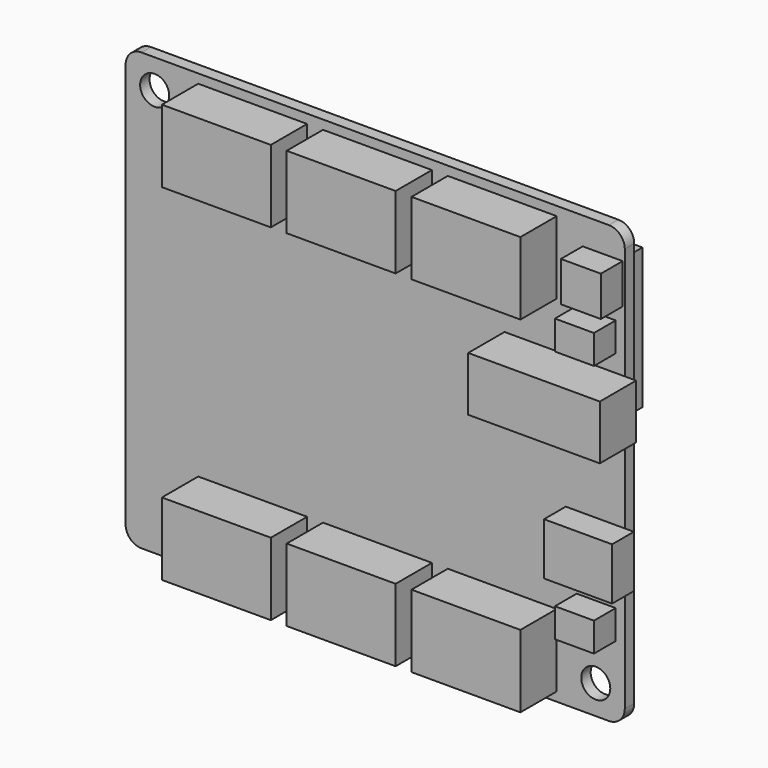
from build123d import *

# Parameters (mm, degrees)
PAD_DEPTH     = 1.3
SKETCH001_R   = 2.011692
SKETCH001_W   = 32
SKETCH001_H   = 29
SKETCH001_W_2 = 7
SKETCH001_H_2 = 5
SKETCH001_W_3 = 14
SKETCH001_H_3 = 15.5
PAD001_DEPTH  = 1.75
SKETCH002_W   = 12
SKETCH002_H   = 8
SKETCH002_W_2 = 14.5
SKETCH002_H_2 = 6
PAD002_DEPTH  = 5
SKETCH003_W   = 4.4
SKETCH003_H   = 4.4
SKETCH003_W_2 = 4.3
SKETCH003_H_2 = 3.2
SKETCH003_W_3 = 7.5
SKETCH003_H_3 = 5.75
PAD003_DEPTH  = 3
SKETCH004_W   = 4.2
SKETCH004_H   = 3.2
PAD004_DEPTH  = 3
SKETCH005_R   = 1.6
POCKET_DEPTH  = 6.301


with BuildPart() as part:
    # Sketch → Pad (new body)
    with BuildSketch(Plane.XZ):
        with BuildLine():
            Line((-53.25, 48.1), (-1.75, 48.1))
            ThreePointArc((0, 46.35), (-0.512563, 47.587437), (-1.75, 48.1))
            Line((0, 46.35), (0, 1.75))
            ThreePointArc((-1.75, 0), (-0.512563, 0.512563), (0, 1.75))
            Line((-1.75, 0), (-53.25, 0))
            ThreePointArc((-55, 1.75), (-54.487437, 0.512563), (-53.25, 0))
            Line((-55, 1.75), (-55, 46.35))
            ThreePointArc((-53.25, 48.1), (-54.487437, 47.587437), (-55, 46.35))
        make_face()
    extrude(amount=PAD_DEPTH)

    # Sketch001 (on Face9 of Pad) → Pad001 (join)
    with BuildSketch(Plane(origin=(0, 0, 0), x_dir=(1, 0, 0), z_dir=(0, 1, 0))):
        with Locations((-52, -24.1)):
            Circle(SKETCH001_R)
        with Locations((-52, -11.6)):
            Circle(SKETCH001_R)
        with Locations((-52, -36.6)):
            Circle(SKETCH001_R)
        with Locations((-32.5, -24.1)):
            Rectangle(SKETCH001_W, SKETCH001_H)
        with Locations((-29.49, -43.86)):
            Rectangle(SKETCH001_W_2, SKETCH001_H_2)
        with Locations((-7.5, -37.35)):
            Rectangle(SKETCH001_W_3, SKETCH001_H_3)
    extrude(amount=PAD001_DEPTH)

    # Sketch002 (on Face5 of Pad001) → Pad002 (join)
    with BuildSketch(Plane.XZ.offset(1.3)):
        with Locations((-41, 43.1)):
            Rectangle(SKETCH002_W, SKETCH002_H)
        with Locations((-27.25, 43.1)):
            Rectangle(SKETCH002_W, SKETCH002_H)
        with Locations((-13.5, 43.1)):
            Rectangle(SKETCH002_W, SKETCH002_H)
        with Locations((-41, 5)):
            Rectangle(SKETCH002_W, SKETCH002_H)
        with Locations((-27.25, 5)):
            Rectangle(SKETCH002_W, SKETCH002_H)
        with Locations((-13.5, 5)):
            Rectangle(SKETCH002_W, SKETCH002_H)
        with Locations((-6, 30.995757)):
            Rectangle(SKETCH002_W_2, SKETCH002_H_2)
    extrude(amount=PAD002_DEPTH)

    # Sketch003 (on Face5 of Pad002) → Pad003 (join)
    with BuildSketch(Plane.XZ.offset(1.3)):
        with Locations((-2.437883, 42.9)):
            Rectangle(SKETCH003_W, SKETCH003_H)
        with Locations((-3.15, 37.5)):
            Rectangle(SKETCH003_W_2, SKETCH003_H_2)
        with Locations((-2.75, 16.375)):
            Rectangle(SKETCH003_W_3, SKETCH003_H_3)
        with Locations((-3.15, 9.6)):
            Rectangle(SKETCH003_W_2, SKETCH003_H_2)
    extrude(amount=PAD003_DEPTH)

    # Sketch004 (on Face4 of Pad003) → Pad004 (join)
    with BuildSketch(Plane(origin=(0, 0, 0), x_dir=(1, 0, 0), z_dir=(0, 1, 0))):
        with Locations((-9.85, -3.35)):
            Rectangle(SKETCH004_W, SKETCH004_H)
    extrude(amount=PAD004_DEPTH)

    # Sketch005 (on Face4 of Pad004) → Pocket (cut, through all)
    with BuildSketch(Plane(origin=(0, 0, 0), x_dir=(1, 0, 0), z_dir=(0, 1, 0))):
        with Locations((-3.2, -3.2)):
            Circle(SKETCH005_R)
        with Locations((-51.8, -44.9)):
            Circle(SKETCH005_R)
    extrude(amount=-POCKET_DEPTH, mode=Mode.SUBTRACT)


solid = part.part
